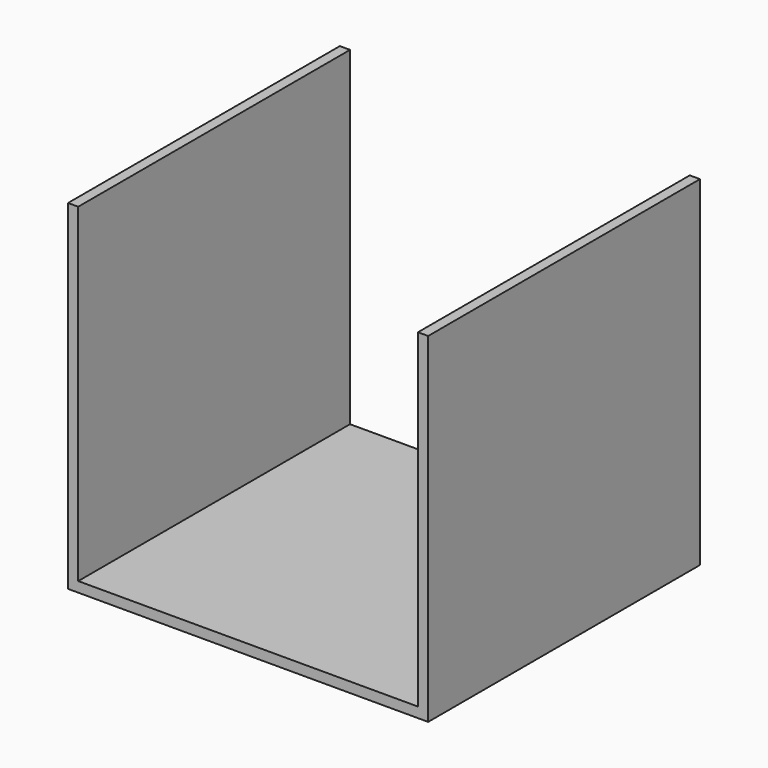
from build123d import *

# Parameters (mm, degrees)
F0_W     = 8.4666666667
F0_H     = 8.4666666667
F1_DEPTH = 0.127
F2_W     = 8.4666666667
F2_H     = 8.4666666667
F3_DEPTH = 0.254
F4_W     = 8.4666666667
F4_H     = 8.2126666667
F4_H_2   = 0.254
F5_DEPTH = 0.254


with BuildPart() as f1:
    # F0 (on Right) → F1 (new body, symmetric)
    with BuildSketch(Plane.YZ):
        Rectangle(F0_W, F0_H)
    extrude(amount=F1_DEPTH, both=True)

    # F2 (on face) → F3 (join)
    with BuildSketch(Plane(origin=(0, 0, -4.2333333333), x_dir=(1, 0, 0), z_dir=(0, 0, -1))):
        with Locations((4.3603333333, 0)):
            Rectangle(F2_W, F2_H)
    extrude(amount=-F3_DEPTH)

    # F4 (on face) → F5 (join)
    with BuildSketch(Plane.YZ.offset(8.5936666667)):
        with Locations((0, 0.127)):
            Rectangle(F4_W, F4_H)
        with Locations((0, -4.1063333333)):
            Rectangle(F4_W, F4_H_2)
    extrude(amount=F5_DEPTH)


solid = f1.part
